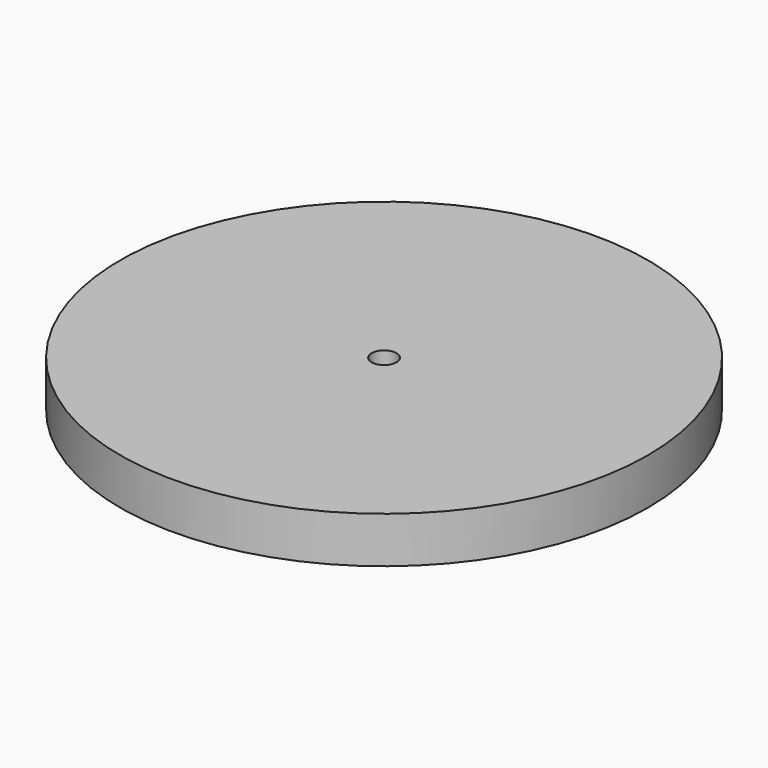
from build123d import *

# Parameters (mm, degrees)
F0_R     = 40
F0_R_2   = 1.885944
F1_DEPTH = 7


with BuildPart() as f1:
    # F0 (on Top) → F1 (new body)
    with BuildSketch(Plane.XY):
        with Locations((-28.4, -34.438066)):
            Circle(F0_R)
        with Locations((-28.4, -34.438066)):
            Circle(F0_R_2, mode=Mode.SUBTRACT)
    extrude(amount=-F1_DEPTH)


solid = f1.part
